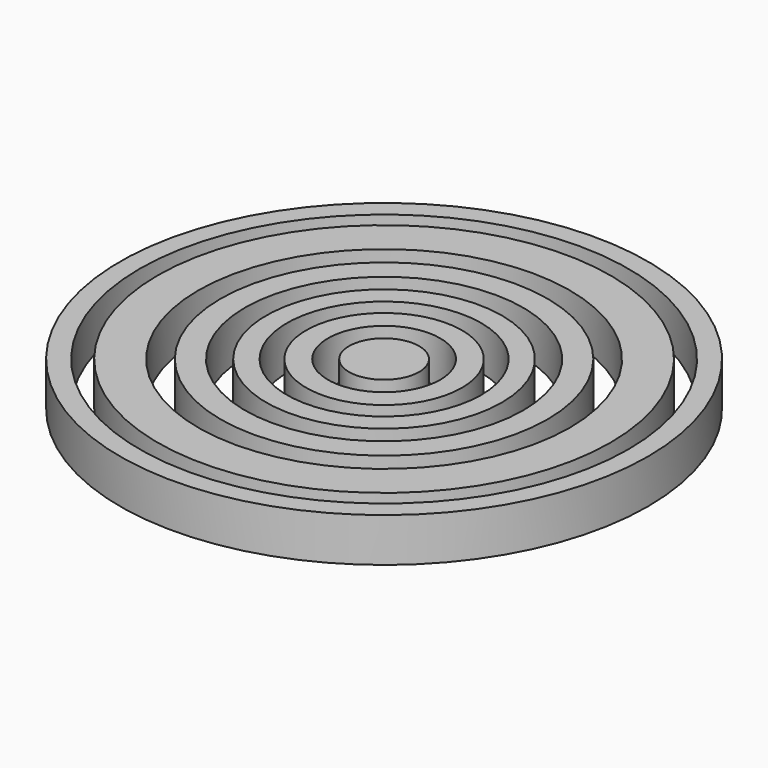
from build123d import *

# Parameters (mm, degrees)
F0_R     = 152.6727266887
F0_R_2   = 141.3572157694
F1_DEPTH = 25.4
F0_R_3   = 20.2889524638
F0_R_4   = 14.4472171752
F0_R_5   = 9.0833704394
F0_R_6   = 4.952842328
F0_R_7   = 45.061229223
F0_R_8   = 32.481784501
F0_R_9   = 68.1597746354
F0_R_10  = 56.2632048915
F0_R_11  = 94.5333203262
F0_R_12  = 80.4625394079
F0_R_13  = 130.9623975477
F0_R_14  = 119.1809039493
F0_R_15  = 107.4857430574


with BuildPart() as f1:
    # F0 (on Top) → F1 (new body)
    with BuildSketch(Plane.XY):
        Circle(F0_R)
        Circle(F0_R_2, mode=Mode.SUBTRACT)
    extrude(amount=F1_DEPTH)


with BuildPart() as f1b:
    # F0 (on Top) → F1, piece 2 (new body)
    with BuildSketch(Plane.XY):
        Circle(F0_R_3)
        Circle(F0_R_4, mode=Mode.SUBTRACT)
        Circle(F0_R_4)
        Circle(F0_R_5, mode=Mode.SUBTRACT)
        Circle(F0_R_5)
        Circle(F0_R_6, mode=Mode.SUBTRACT)
        Circle(F0_R_6)
    extrude(amount=F1_DEPTH)


with BuildPart() as f1c:
    # F0 (on Top) → F1, piece 3 (new body)
    with BuildSketch(Plane.XY):
        Circle(F0_R_7)
        Circle(F0_R_8, mode=Mode.SUBTRACT)
    extrude(amount=F1_DEPTH)


with BuildPart() as f1d:
    # F0 (on Top) → F1, piece 4 (new body)
    with BuildSketch(Plane.XY):
        Circle(F0_R_9)
        Circle(F0_R_10, mode=Mode.SUBTRACT)
    extrude(amount=F1_DEPTH)


with BuildPart() as f1e:
    # F0 (on Top) → F1, piece 5 (new body)
    with BuildSketch(Plane.XY):
        Circle(F0_R_11)
        Circle(F0_R_12, mode=Mode.SUBTRACT)
    extrude(amount=F1_DEPTH)


with BuildPart() as f1f:
    # F0 (on Top) → F1, piece 6 (new body)
    with BuildSketch(Plane.XY):
        Circle(F0_R_13)
        Circle(F0_R_14, mode=Mode.SUBTRACT)
        Circle(F0_R_14)
        Circle(F0_R_15, mode=Mode.SUBTRACT)
    extrude(amount=F1_DEPTH)


solid = Compound([f1.part, f1b.part, f1c.part, f1d.part, f1e.part, f1f.part])
